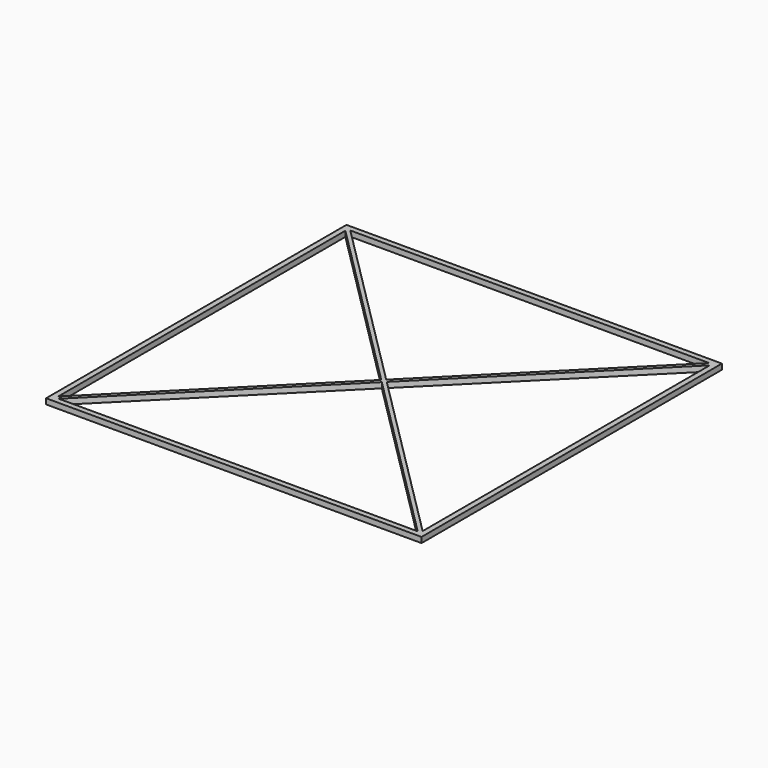
from build123d import *

# Parameters (mm, degrees)
F0_W     = 107.95
F0_H     = 107.95
F1_DEPTH = 1.5748


with BuildPart() as f1:
    # F0 (on Top) → F1 (new body)
    with BuildSketch(Plane.XY):
        with Locations((-1.349839, -6.699329)):
            Rectangle(F0_W, F0_H)
        Polygon((50.250261, -59.086829), (-52.949939, -59.086829), (-1.349839, -7.486729), align=None, mode=Mode.SUBTRACT)
        Polygon((-53.737339, -58.299429), (-53.737339, 44.900771), (-2.137239, -6.699329), align=None, mode=Mode.SUBTRACT)
        Polygon((-1.349839, -5.911929), (-52.949939, 45.688171), (50.250261, 45.688171), align=None, mode=Mode.SUBTRACT)
        Polygon((-0.562439, -6.699329), (51.037661, 44.900771), (51.037661, -58.299429), align=None, mode=Mode.SUBTRACT)
    extrude(amount=F1_DEPTH)


solid = f1.part
